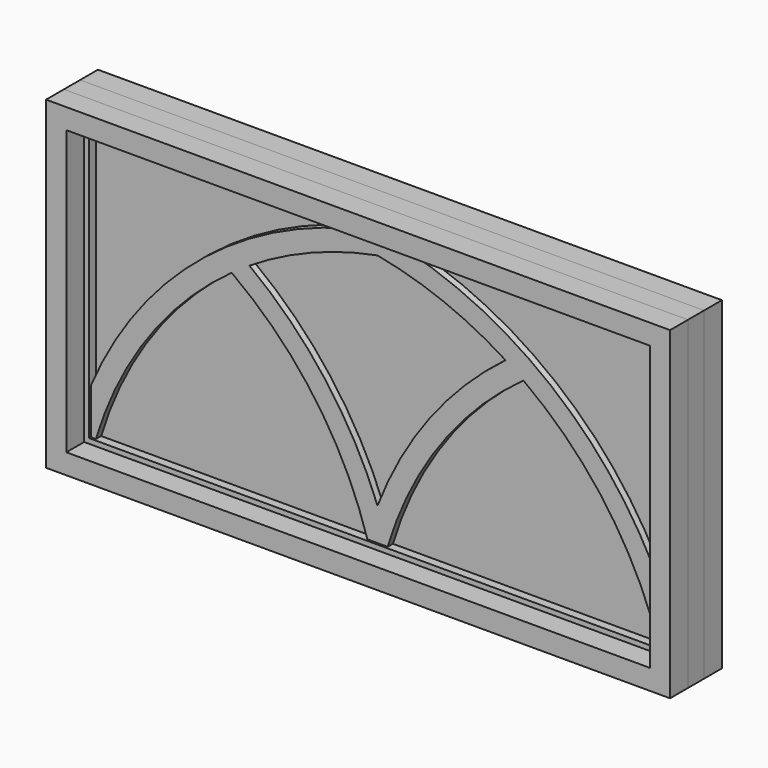
from build123d import *

# Parameters (mm, degrees)
F0_W     = 1955.8
F0_H     = 1016
F1_DEPTH = 101.6
F2_DEPTH = 31.75
F3_DEPTH = 4.7625
F4_DEPTH = 25.4


with BuildPart() as f1:
    # F0 (on Front) → F1 (new body, symmetric)
    with BuildSketch(Plane.XZ):
        Rectangle(F0_W, F0_H)
        Polygon((914.4, 444.5), (914.4, -444.5), (-914.4, -444.5), (-914.4, 365.125), (-914.4, 444.5), align=None, mode=Mode.SUBTRACT)
    extrude(amount=F1_DEPTH, both=True)


with BuildPart() as f2:
    # F0 (on Front) → F2 (new body, symmetric)
    with BuildSketch(Plane.XZ):
        with BuildLine():
            Line((-898.525, 426.743058), (-898.525, 362.014376))
            Line((-898.525, 362.014376), (-898.525, -286.133033))
            ThreePointArc((-898.525, -286.133033), (-542.252292, 183.725861), (-5.85502, 428.625))
            Line((-5.85502, 428.625), (-869.724843, 428.625))
            Line((-869.724843, 428.625), (-898.525, 428.625))
            Line((-898.525, 428.625), (-898.525, 426.743058))
        make_face()
        Polygon((-914.4, -444.5), (914.4, -444.5), (914.4, 444.5), (-914.4, 444.5), (-914.4, 365.125), align=None)
        Polygon((-898.525, -286.133033), (-898.525, 362.014376), (-898.525, 426.743058), (-898.525, 428.625), (-869.724843, 428.625), (-5.85502, 428.625), (5.85502, 428.625), (898.525, 428.625), (898.525, -286.133033), (898.525, -428.625), (882.65, -428.625), (31.75, -428.625), (-31.75, -428.625), (-457.2, -428.625), (-882.65, -428.625), (-898.525, -428.625), align=None, mode=Mode.SUBTRACT)
        Rectangle(F0_W, F0_H)
        Polygon((914.4, 444.5), (914.4, -444.5), (-914.4, -444.5), (-914.4, 365.125), (-914.4, 444.5), align=None, mode=Mode.SUBTRACT)
        Polygon((-914.4, -444.5), (914.4, -444.5), (914.4, 444.5), (-914.4, 444.5), (-914.4, 365.125), align=None)
        Polygon((-898.525, -286.133033), (-898.525, 362.014376), (-898.525, 426.743058), (-898.525, 428.625), (-869.724843, 428.625), (-5.85502, 428.625), (5.85502, 428.625), (898.525, 428.625), (898.525, -286.133033), (898.525, -428.625), (882.65, -428.625), (31.75, -428.625), (-31.75, -428.625), (-457.2, -428.625), (-882.65, -428.625), (-898.525, -428.625), align=None, mode=Mode.SUBTRACT)
    extrude(amount=F2_DEPTH, both=True)


with BuildPart() as f3:
    # F0 (on Front) → F3 (new body, symmetric)
    with BuildSketch(Plane.XZ):
        with BuildLine():
            Line((-898.525, 426.743058), (-898.525, 362.014376))
            Line((-898.525, 362.014376), (-898.525, -286.133033))
            ThreePointArc((-898.525, -286.133033), (-542.252292, 183.725861), (-5.85502, 428.625))
            Line((-5.85502, 428.625), (-869.724843, 428.625))
            Line((-869.724843, 428.625), (-898.525, 428.625))
            Line((-898.525, 428.625), (-898.525, 426.743058))
        make_face()
        with BuildLine():
            ThreePointArc((-457.2, 168.659371), (-719.125325, -94.937065), (-882.65, -428.625))
            Line((-882.65, -428.625), (-457.2, -428.625))
            Line((-457.2, -428.625), (-31.75, -428.625))
            ThreePointArc((-31.75, -428.625), (-195.274675, -94.937065), (-457.2, 168.659371))
        make_face()
        with BuildLine():
            ThreePointArc((457.2, 168.659371), (195.274675, -94.937065), (31.75, -428.625))
            Line((31.75, -428.625), (882.65, -428.625))
            ThreePointArc((882.65, -428.625), (719.125325, -94.937065), (457.2, 168.659371))
        make_face()
        with BuildLine():
            ThreePointArc((401.451197, 206.458829), (208.283881, 304.915598), (0, 365.125))
            ThreePointArc((0, 365.125), (-208.283881, 304.915598), (-401.451197, 206.458829))
            ThreePointArc((-401.451197, 206.458829), (-163.280746, -31.197229), (0, -325.382482))
            ThreePointArc((0, -325.382482), (163.280746, -31.197229), (401.451197, 206.458829))
        make_face()
        with BuildLine():
            Line((898.525, 428.625), (5.85502, 428.625))
            ThreePointArc((5.85502, 428.625), (542.252292, 183.725861), (898.525, -286.133033))
            Line((898.525, -286.133033), (898.525, 428.625))
        make_face()
    extrude(amount=F3_DEPTH, both=True)


with BuildPart() as f4:
    # F0 (on Front) → F4 (new body, symmetric)
    with BuildSketch(Plane.XZ):
        with BuildLine():
            ThreePointArc((-5.85502, 428.625), (-542.252292, 183.725861), (-898.525, -286.133033))
            Line((-898.525, -286.133033), (-898.525, -428.625))
            Line((-898.525, -428.625), (-882.65, -428.625))
            ThreePointArc((-882.65, -428.625), (-719.125325, -94.937065), (-457.2, 168.659371))
            ThreePointArc((-457.2, 168.659371), (-195.274675, -94.937065), (-31.75, -428.625))
            Line((-31.75, -428.625), (31.75, -428.625))
            ThreePointArc((31.75, -428.625), (195.274675, -94.937065), (457.2, 168.659371))
            ThreePointArc((457.2, 168.659371), (719.125325, -94.937065), (882.65, -428.625))
            Line((882.65, -428.625), (898.525, -428.625))
            Line((898.525, -428.625), (898.525, -286.133033))
            ThreePointArc((898.525, -286.133033), (542.252292, 183.725861), (5.85502, 428.625))
            Line((5.85502, 428.625), (-5.85502, 428.625))
        make_face()
        with BuildLine():
            ThreePointArc((-401.451197, 206.458829), (-208.283881, 304.915598), (0, 365.125))
            ThreePointArc((0, 365.125), (208.283881, 304.915598), (401.451197, 206.458829))
            ThreePointArc((401.451197, 206.458829), (163.280746, -31.197229), (0, -325.382482))
            ThreePointArc((0, -325.382482), (-163.280746, -31.197229), (-401.451197, 206.458829))
        make_face(mode=Mode.SUBTRACT)
    extrude(amount=F4_DEPTH, both=True)


solid = Compound([f1.part, f2.part, f3.part, f4.part])
